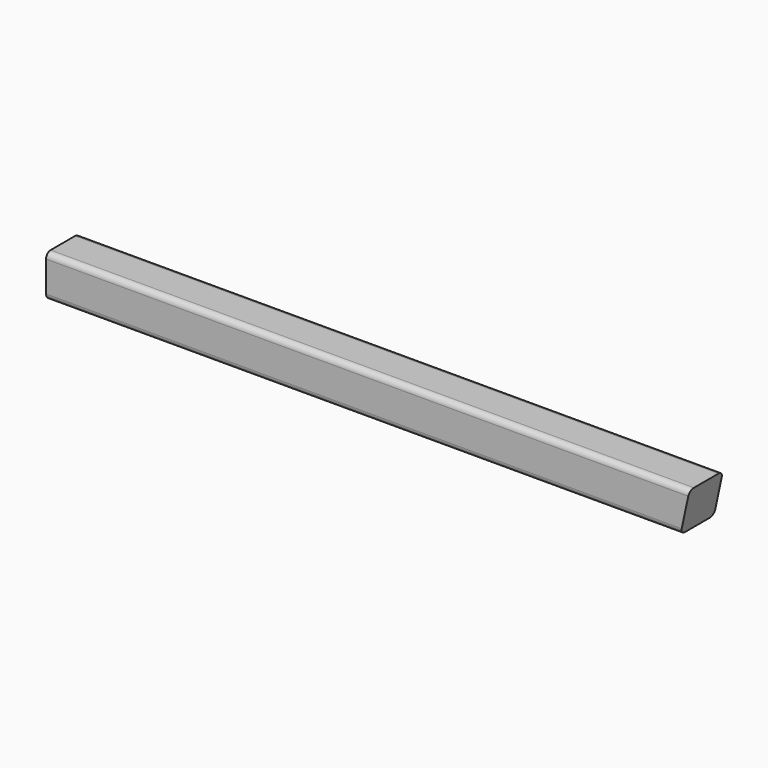
from build123d import *

# Parameters (mm, degrees)
F0_W     = 627.888
F0_H     = 38.1
F1_DEPTH = 19.05
F3_DEPTH = 38.101
F4_R     = 5.08


with BuildPart() as f1:
    # F0 (on Front) → F1 (new body, symmetric)
    with BuildSketch(Plane.XZ):
        Rectangle(F0_W, F0_H)
    extrude(amount=F1_DEPTH, both=True)

    # F2 (on face) → F3 (cut, through all)
    with BuildSketch(Plane.XZ.offset(19.05)):
        Polygon((313.944, 19.05), (271.231802, 19.05), (263.133398, -19.05), (313.944, -19.05), align=None)
    extrude(amount=-F3_DEPTH, mode=Mode.SUBTRACT)

    # F4
    f4_edges = [f1.edges().sort_by_distance(p)[0] for p in [
        (-21.356099, -19.05, 19.05),
        (-25.405301, -19.05, -19.05),
        (-21.356099, 19.05, 19.05),
        (-25.405301, 19.05, -19.05),
    ]]
    fillet(f4_edges, radius=F4_R)


solid = f1.part
